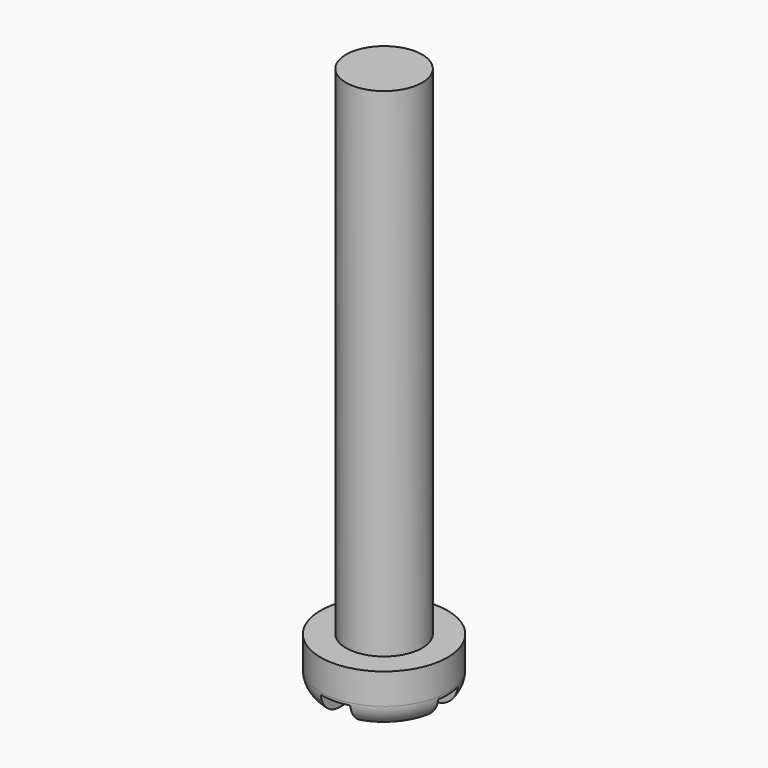
from build123d import *

# Parameters (mm, degrees)
F0_R     = 2.5
F1_DEPTH = 2.1
F2_R     = 1.5
F3_DEPTH = 19.6
F4_R     = 0.8932590181
F5_W     = 2.3426773259
F5_H     = 1.0091533186
F5_W_2   = 1.1473111808
F5_H_2   = 2.1985126659
F5_W_3   = 2.6310068788
F5_H_3   = 1.9702516729
F6_DEPTH = 0.8


with BuildPart() as f1:
    # F0 (on Top) → F1 (new body)
    with BuildSketch(Plane.XY):
        Circle(F0_R)
    extrude(amount=F1_DEPTH)

    # F2 (on face) → F3 (join)
    with BuildSketch(Plane.XY.offset(2.1)):
        Circle(F2_R)
    extrude(amount=F3_DEPTH)

    # F4
    f4_edges = [f1.edges().sort_by_distance(p)[0] for p in [
        (-2.5, 0, 0),
    ]]
    fillet(f4_edges, radius=F4_R)

    # F5 (on face) → F6 (cut)
    with BuildSketch(Plane(origin=(0, 0, 0), x_dir=(1, 0, 0), z_dir=(0, 0, -1))):
        with Locations((-1.7149599153, -0.0991132692)):
            Rectangle(F5_W, F5_H)
        with Locations((0.0300343381, 1.504719723)):
            Rectangle(F5_W_2, F5_H_2)
        with Locations((0.0300343381, -0.0991132692)):
            Rectangle(F5_W_2, F5_H)
        with Locations((1.9191933679, -0.0991132692)):
            Rectangle(F5_W_3, F5_H)
        with Locations((0.0300343381, -1.588815765)):
            Rectangle(F5_W_2, F5_H_3)
    extrude(amount=-F6_DEPTH, mode=Mode.SUBTRACT)


solid = f1.part
